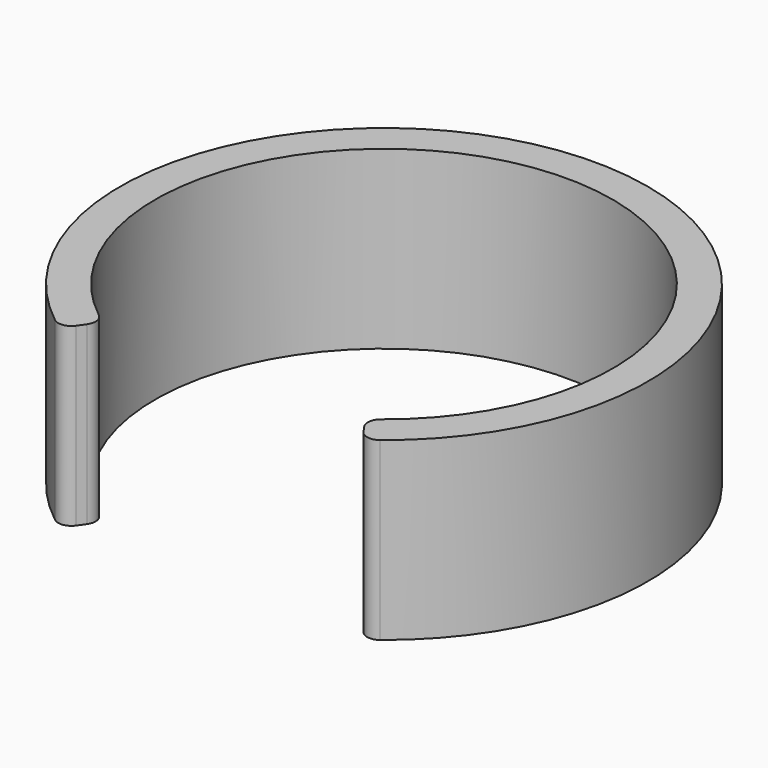
from build123d import *

# Parameters (mm, degrees)
PAD_DEPTH = 10
FILLET_R  = 0.75


with BuildPart() as part:
    # Sketch → Pad (new body)
    with BuildSketch(Plane.XY):
        with BuildLine():
            ThreePointArc((8.603647, -12.287281), (0, 15), (-8.603647, -12.287281))
            Line((-7.456494, -10.648977), (-8.603647, -12.287281))
            ThreePointArc((7.456494, -10.648977), (0, 13), (-7.456494, -10.648977))
            Line((8.603647, -12.287281), (7.456494, -10.648977))
        make_face()
    extrude(amount=PAD_DEPTH)

    # Fillet
    fillet_edges = [part.edges().sort_by_distance(p)[0] for p in [
        (7.456494, -10.648977, 5),
        (8.603647, -12.287281, 5),
        (-7.456494, -10.648977, 5),
        (-8.603647, -12.287281, 5),
    ]]
    fillet(fillet_edges, radius=FILLET_R)


solid = part.part
